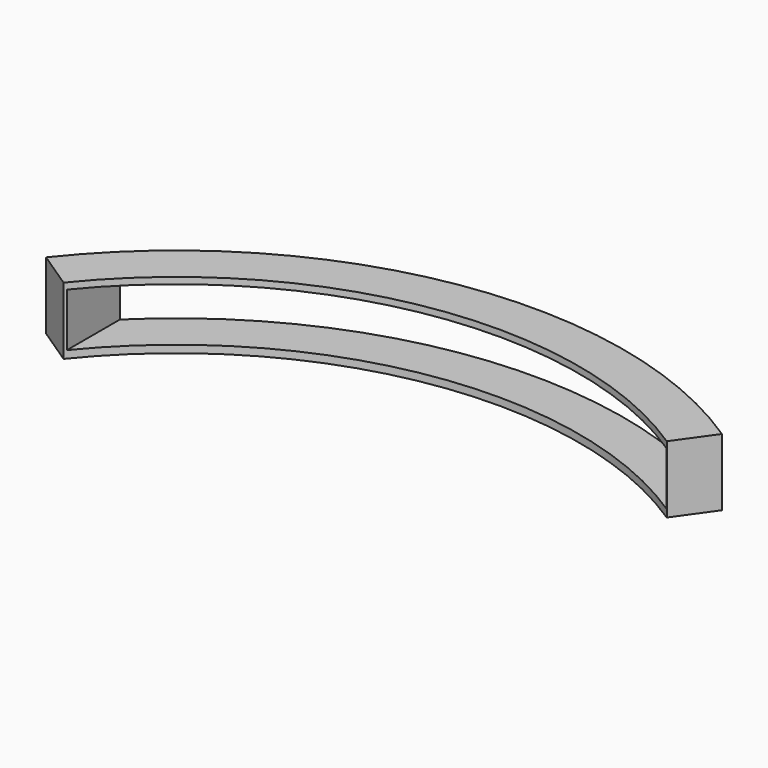
from build123d import *

# Parameters (mm, degrees)
F1_DEPTH = 15
F2_W     = 119.178112
F2_H     = 11.900312
F3_DEPTH = 100.001


with BuildPart() as f1:
    # F0 (on Top) → F1 (new body)
    with BuildSketch(Plane.XY):
        with BuildLine():
            ThreePointArc((-70.203564, 56.315713), (-14.076578, 88.89235), (49.369319, 75.250717))
            Line((49.369319, 75.250717), (55.164885, 83.407647))
            ThreePointArc((55.164885, 83.407647), (-15.895224, 98.728627), (-78.555865, 61.87872))
            Line((-78.555865, 61.87872), (-70.203564, 56.315713))
        make_face()
    extrude(amount=F1_DEPTH)

    # F2 (on Front) → F3 (cut, through all)
    with BuildSketch(Plane.XZ):
        with Locations((-10.23777, 7.612698)):
            Rectangle(F2_W, F2_H)
    extrude(amount=-F3_DEPTH, mode=Mode.SUBTRACT)


solid = f1.part
